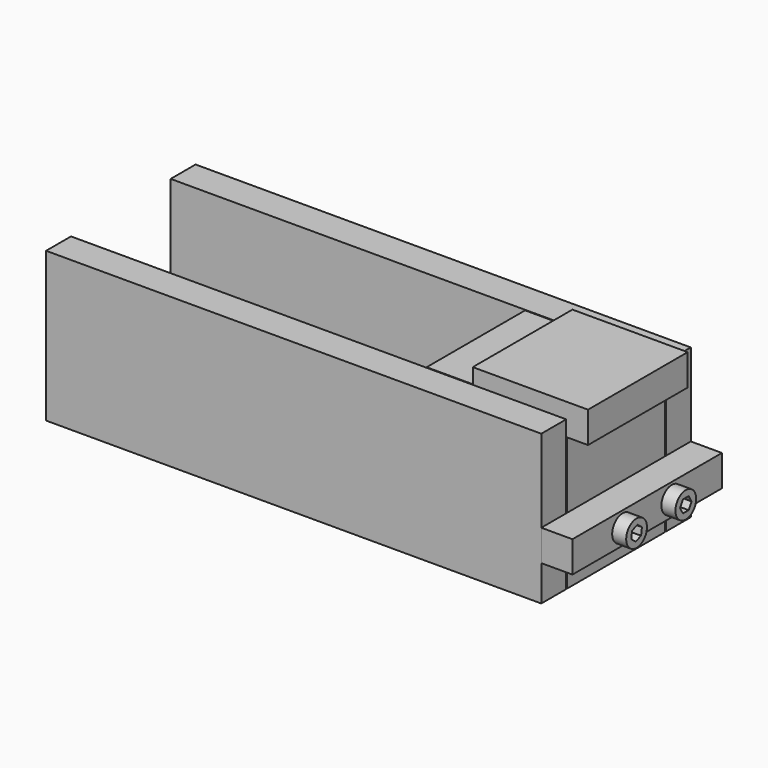
from build123d import *

# Parameters (mm, degrees)
F0_W      = 45
F0_H      = 39.5
F1_DEPTH  = 43
F2_W      = 15
F2_H      = 39.5
F3_DEPTH  = 5
F4_W      = 10
F4_H      = 10
F5_DEPTH  = 37
F7_W      = 10
F7_H      = 48
F8_DEPTH  = 159
F9_W      = 60
F9_H      = 10
F10_DEPTH = 10
F12_R     = 4.165
F13_DEPTH = 4.5
F15_DEPTH = 3.5


with BuildPart() as f1:
    # F0 (on Top) → F1 (new body)
    with BuildSketch(Plane.XY):
        Rectangle(F0_W, F0_H)
    extrude(amount=F1_DEPTH)

    # F2 (on face) → F3 (join)
    with BuildSketch(Plane.XY.offset(43)):
        with Locations((-15, 0)):
            Rectangle(F2_W, F2_H)
    extrude(amount=F3_DEPTH)

    # F4 (on face) → F5 (join)
    with BuildSketch(Plane.YZ.offset(-7.5)):
        with Locations((5, 48)):
            Rectangle(F4_W, F4_H)
        with Locations((-5, 48)):
            Rectangle(F4_W, F4_H)
        with Locations((15, 48)):
            Rectangle(F4_W, F4_H)
        with Locations((-15, 48)):
            Rectangle(F4_W, F4_H)
    extrude(amount=F5_DEPTH)


with BuildPart() as f8:
    # F7 (on plane+point) → F8 (new body)
    with BuildSketch(Plane.YZ.offset(22.5)):
        with Locations((25, 24)):
            Rectangle(F7_W, F7_H)
    extrude(amount=-F8_DEPTH)


with BuildPart() as f8b:
    # F7 (on plane+point) → F8, piece 2 (new body)
    with BuildSketch(Plane.YZ.offset(22.5)):
        with Locations((-25, 24)):
            Rectangle(F7_W, F7_H)
    extrude(amount=-F8_DEPTH)


with BuildPart() as f10:
    # F9 (on face) → F10 (new body)
    with BuildSketch(Plane.YZ.offset(22.5)):
        with Locations((0, 16.4241382107)):
            Rectangle(F9_W, F9_H)
    extrude(amount=F10_DEPTH)


with BuildPart() as f13:
    # F12 (on face) → F13 (new body)
    with BuildSketch(Plane.YZ.offset(32.5)):
        with Locations((-9.875, 16.4241382107)):
            Circle(F12_R)
    extrude(amount=F13_DEPTH)


with BuildPart() as f13b:
    # F12 (on face) → F13, piece 2 (new body)
    with BuildSketch(Plane.YZ.offset(32.5)):
        with Locations((9.875, 16.4241382107)):
            Circle(F12_R)
    extrude(amount=F13_DEPTH)


with BuildPart() as f15_tool:
    # F14 (on face) → F15 (new body)
    with BuildSketch(Plane.YZ.offset(37)):
        Polygon((-10.2362294434, 14.1431632826), (-8.0802324886, 14.9708168721), (-7.7190030452, 17.2517918001), (-9.5137705566, 18.7051131388), (-11.6697675114, 17.8774595494), (-12.0309969548, 15.5964846213), align=None)
        Polygon((8.7202994616, 14.4241382107), (11.0297005384, 14.4241382107), (12.1844010768, 16.4241382107), (11.0297005384, 18.4241382107), (8.7202994616, 18.4241382107), (7.5655989232, 16.4241382107), align=None)
    extrude(amount=-F15_DEPTH)


with BuildPart() as f13_1:
    add(f13.part)

    # F15: cut by f15_tool
    add(f15_tool.part, mode=Mode.SUBTRACT)


with BuildPart() as f13b_1:
    add(f13b.part)

    # F15: cut by f15_tool
    add(f15_tool.part, mode=Mode.SUBTRACT)


solid = Compound([f1.part, f8.part, f8b.part, f10.part, f13_1.part, f13b_1.part])
